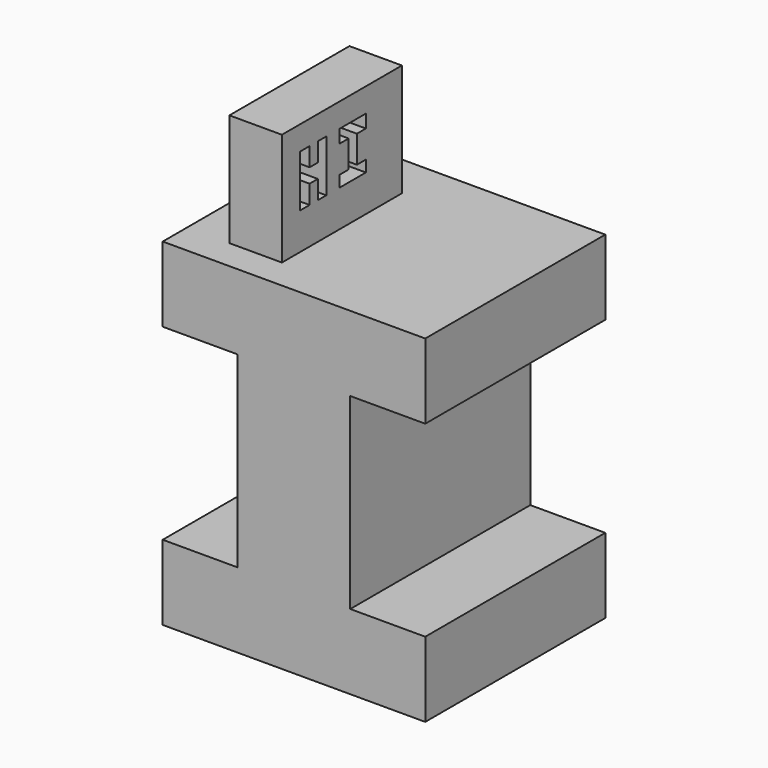
from build123d import *

# Parameters (mm, degrees)
F1_DEPTH = 76.2
F2_W     = 17.78
F2_H     = 50.8
F3_DEPTH = 38.1
F5_DEPTH = 63.5
F7_DEPTH = 63.5


with BuildPart() as f1:
    # F0 (on Front) → F1 (new body)
    with BuildSketch(Plane.XZ):
        Polygon((-44.748871, -19.178686), (-44.748871, -44.578686), (44.151129, -44.578686), (44.151129, -19.178686), (18.751129, -19.178686), (18.751129, 44.321314), (44.151129, 44.321314), (44.151129, 69.721314), (-44.748871, 69.721314), (-44.748871, 44.321314), (-19.348871, 44.321314), (-19.348871, -19.178686), align=None)
    extrude(amount=F1_DEPTH)

    # F2 (on face) → F3 (join)
    with BuildSketch(Plane.XY.offset(69.721314)):
        with Locations((-21.511204, -40.512243)):
            Rectangle(F2_W, F2_H)
    extrude(amount=F3_DEPTH)

    # F4 (on face) → F5 (cut)
    with BuildSketch(Plane.YZ.offset(-12.621204)):
        Polygon((-54.192732, 99.692909), (-58.158241, 99.692909), (-58.158241, 82.120264), (-54.192732, 82.120264), (-54.192732, 88.470264), (-50.693755, 88.470264), (-50.693755, 82.120264), (-47.117021, 82.120264), (-47.117021, 99.692909), (-50.693755, 99.692909), (-50.693755, 93.342909), (-54.192732, 93.342909), align=None)
    extrude(amount=-F5_DEPTH, mode=Mode.SUBTRACT)

    # F6 (on face) → F7 (cut)
    with BuildSketch(Plane.YZ.offset(-12.621204)):
        Polygon((-34.177791, 95.228866), (-30.367791, 95.228866), (-30.367791, 99.692909), (-41.473001, 99.692909), (-41.473001, 95.228866), (-37.663001, 95.228866), (-37.663001, 85.972577), (-41.473001, 85.972577), (-41.473001, 82.120264), (-30.367791, 82.120264), (-30.367791, 85.972577), (-34.177791, 85.972577), align=None)
    extrude(amount=-F7_DEPTH, mode=Mode.SUBTRACT)


solid = f1.part
